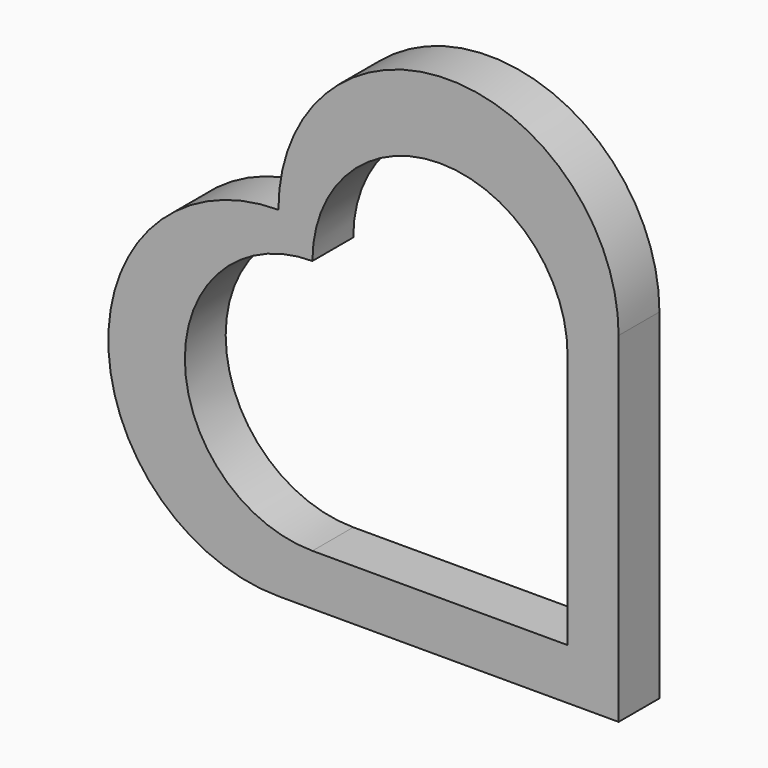
from build123d import *

# Parameters (mm, degrees)
F1_DEPTH = 6


with BuildPart() as f1:
    # F0 (on Front) → F1 (new body)
    with BuildSketch(Plane.XZ):
        with BuildLine():
            Line((-40, 0), (0, 0))
            Line((0, 0), (0, 40))
            ThreePointArc((0, 40), (-20, 60), (-40, 40))
            ThreePointArc((-40, 40), (-60, 20), (-40, 0))
        make_face()
        with BuildLine():
            Line((-6, 6), (-36, 6))
            ThreePointArc((-36, 6), (-51, 21), (-36, 36))
            ThreePointArc((-36, 36), (-21, 51), (-6, 36))
            Line((-6, 36), (-6, 6))
        make_face(mode=Mode.SUBTRACT)
        with BuildLine():
            Line((-40, 0), (0, 0))
            Line((0, 0), (0, 40))
            ThreePointArc((0, 40), (-20, 60), (-40, 40))
            ThreePointArc((-40, 40), (-60, 20), (-40, 0))
        make_face()
        with BuildLine():
            Line((-6, 6), (-36, 6))
            ThreePointArc((-36, 6), (-51, 21), (-36, 36))
            ThreePointArc((-36, 36), (-21, 51), (-6, 36))
            Line((-6, 36), (-6, 6))
        make_face(mode=Mode.SUBTRACT)
    extrude(amount=F1_DEPTH)


solid = f1.part
